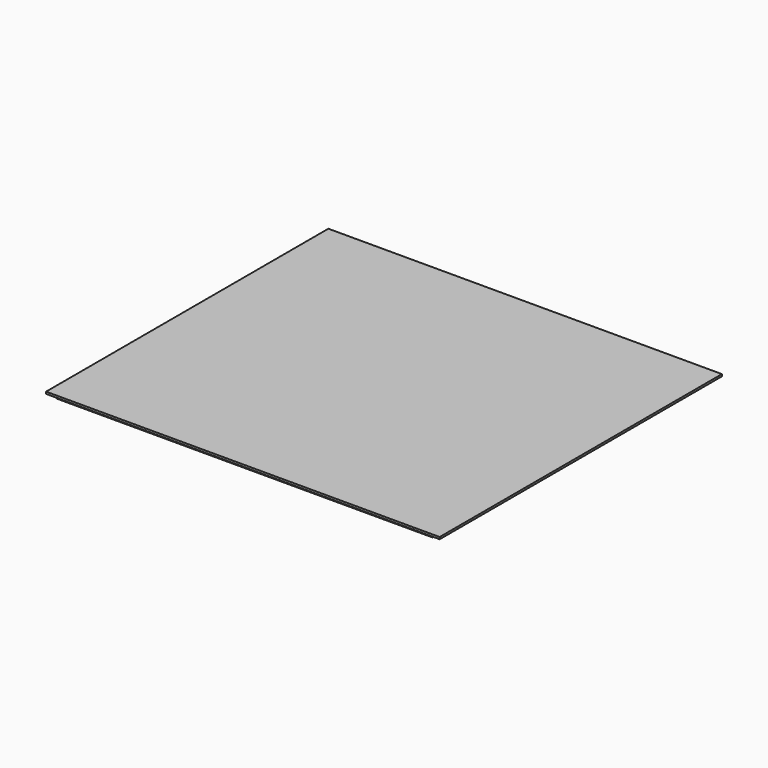
from build123d import *

# Parameters (mm, degrees)
F0_W     = 554
F0_H     = 514
F1_DEPTH = 3
F2_W     = 560
F2_H     = 520
F2_W_2   = 10
F3_DEPTH = 3


with BuildPart() as f1:
    # F0 (on Top) → F1 (new body)
    with BuildSketch(Plane.XY):
        Rectangle(F0_W, F0_H)
    extrude(amount=F1_DEPTH)


with BuildPart() as f3:
    # F2 (on face) → F3 (new body)
    with BuildSketch(Plane.XY.offset(3)):
        Rectangle(F2_W, F2_H)
        with Locations((-285, 0)):
            Rectangle(F2_W_2, F2_H)
        with Locations((285, 0)):
            Rectangle(F2_W_2, F2_H)
    extrude(amount=F3_DEPTH)


solid = Compound([f1.part, f3.part])
